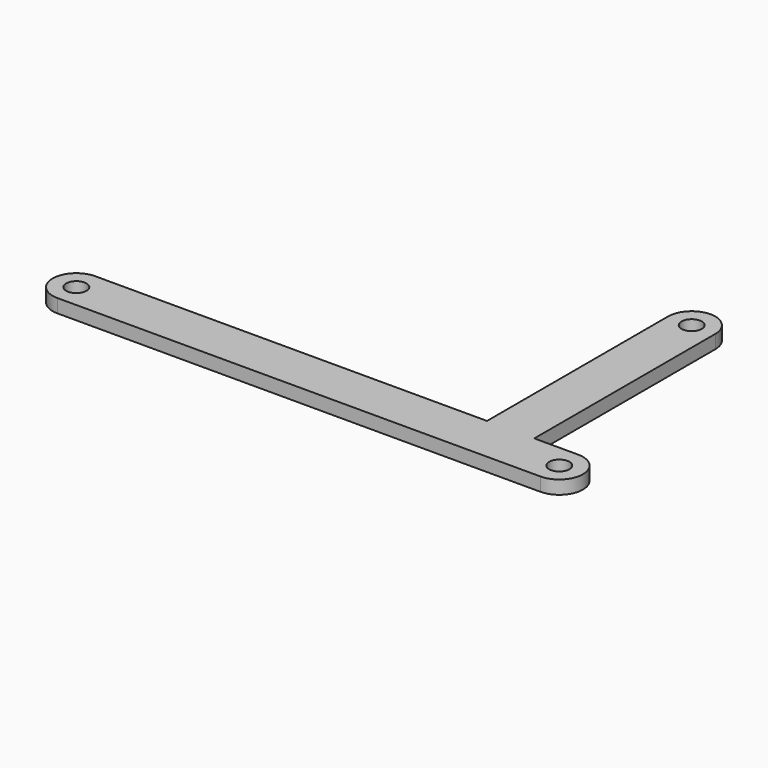
from build123d import *

# Parameters (mm, degrees)
F0_R     = 1.5
F1_DEPTH = 2


with BuildPart() as f1:
    # F0 (on Top) → F1 (new body)
    with BuildSketch(Plane.XY):
        with BuildLine():
            Line((65, 3.5), (65, 37))
            ThreePointArc((65, 37), (61.5, 40.5), (58, 37))
            Line((58, 37), (58, 3.5))
            Line((58, 3.5), (0, 3.5))
            ThreePointArc((0, 3.5), (-3.5, 0), (0, -3.5))
            Line((0, -3.5), (71.5, -3.5))
            ThreePointArc((71.5, -3.5), (75, 0), (71.5, 3.5))
            Line((71.5, 3.5), (65, 3.5))
        make_face()
        Circle(F0_R, mode=Mode.SUBTRACT)
        with Locations((71.5, 0)):
            Circle(F0_R, mode=Mode.SUBTRACT)
        with Locations((61.5, 37)):
            Circle(F0_R, mode=Mode.SUBTRACT)
    extrude(amount=F1_DEPTH)


solid = f1.part
